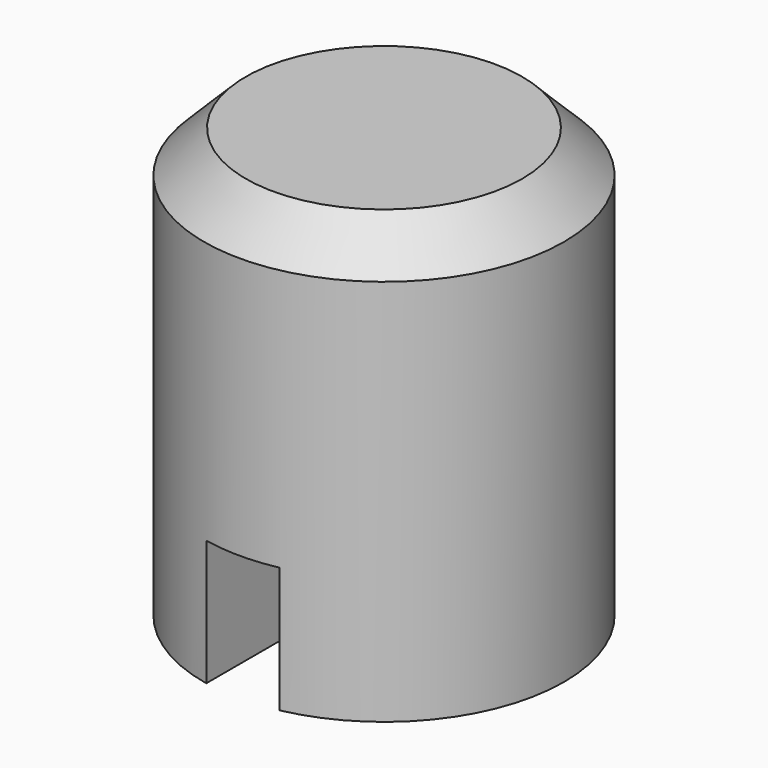
from build123d import *

# Parameters (mm, degrees)
F0_R     = 2.1844
F1_DEPTH = 5.207
F2_W     = 0.889
F2_H     = 3.048
F3_DEPTH = 12.7
F4_SIZE  = 0.508


with BuildPart() as f1:
    # F0 (on Top) → F1 (new body)
    with BuildSketch(Plane.XY):
        Circle(F0_R)
    extrude(amount=F1_DEPTH)

    # F2 (on Front) → F3 (cut, symmetric)
    with BuildSketch(Plane.XZ):
        Rectangle(F2_W, F2_H)
    extrude(amount=F3_DEPTH, both=True, mode=Mode.SUBTRACT)

    # F4
    f4_edges = [f1.edges().sort_by_distance(p)[0] for p in [
        (-2.1844, 0, 5.207),
    ]]
    chamfer(f4_edges, length=F4_SIZE)


solid = f1.part
